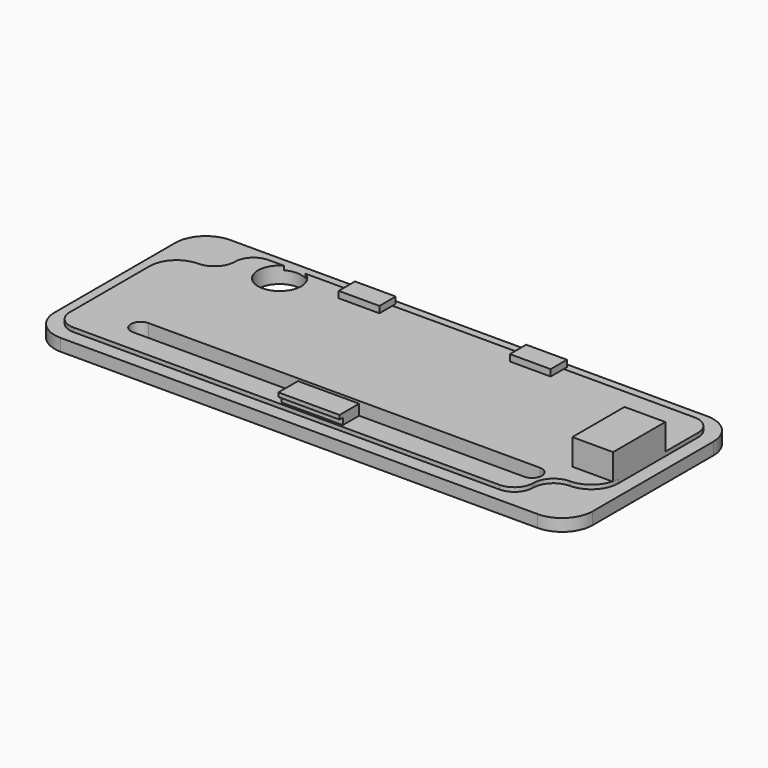
from build123d import *

# Parameters (mm, degrees)
PAD007_DEPTH    = 1.5
PAD008_DEPTH    = 0.5
SKETCH012_W     = 5
SKETCH012_H     = 2.5
SKETCH012_W_2   = 7.5
PAD009_DEPTH    = 0.8
SKETCH013_W     = 7.5
SKETCH013_H     = 3
PAD010_DEPTH    = 0.5
POCKET003_DEPTH = 0.5
POCKET004_DEPTH = 2
SKETCH021_W     = 5
SKETCH021_H     = 8
PAD013_DEPTH    = 3.2
SKETCH024_R     = 2.65
POCKET007_DEPTH = 5.201


with BuildPart() as part:
    # Sketch010 → Pad007 (new body)
    with BuildSketch(Plane.XY.offset(-19)):
        with BuildLine():
            Line((-29.25, 13), (29.25, 13))
            ThreePointArc((33, 9.25), (31.9016504294, 11.9016504294), (29.25, 13))
            Line((33, 9.25), (33, -9.25))
            ThreePointArc((29.25, -13), (31.9016504295, -11.9016504294), (33, -9.25))
            Line((29.25, -13), (-29.25, -13))
            ThreePointArc((-33, -9.25), (-31.9016504294, -11.9016504295), (-29.25, -13))
            Line((-33, -9.25), (-33, 9.25))
            ThreePointArc((-29.25, 13), (-31.9016504294, 11.9016504294), (-33, 9.25))
        make_face()
    extrude(amount=PAD007_DEPTH)

    # Sketch011 → Pad008 (new body)
    with BuildSketch(Plane.XY.offset(-17.5)):
        with BuildLine():
            Line((-29.05, 11.3), (29.05, 11.3))
            ThreePointArc((31.3, 9.05), (30.6409902577, 10.6409902577), (29.05, 11.3))
            Line((31.3, 9.05), (31.3, -9.05))
            ThreePointArc((29.05, -11.3), (30.6409902577, -10.6409902577), (31.3, -9.05))
            Line((29.05, -11.3), (-29.05, -11.3))
            ThreePointArc((-31.3, -9.05), (-30.6409902577, -10.6409902577), (-29.05, -11.3))
            Line((-31.3, -9.05), (-31.3, 9.05))
            ThreePointArc((-29.05, 11.3), (-30.6409902577, 10.6409902577), (-31.3, 9.05))
        make_face()
    extrude(amount=PAD008_DEPTH)

    # Sketch012 → Pad009 (new body)
    with BuildSketch(Plane.XY.offset(-17)):
        with Locations((-10.5, 10.55)):
            Rectangle(SKETCH012_W, SKETCH012_H)
        with Locations((10.5, 10.55)):
            Rectangle(SKETCH012_W, SKETCH012_H)
        with Locations((0, -9.75)):
            Rectangle(SKETCH012_W_2, SKETCH012_H)
    extrude(amount=PAD009_DEPTH)

    # Sketch013 → Pad010 (new body)
    with BuildSketch(Plane.XY.offset(-16.2)):
        with Locations((0, -10)):
            Rectangle(SKETCH013_W, SKETCH013_H)
    extrude(amount=PAD010_DEPTH)

    # Sketch016 → Pocket003 (cut)
    with BuildSketch(Plane.XY.offset(-17)):
        with BuildLine():
            ThreePointArc((28.0000015561, -6.5), (26.2322341473, -7.2322319467), (25.5, -8.9999984439))
            ThreePointArc((23.2000163651, -11.3), (24.8263541015, -10.6263414294), (25.5, -8.999998444))
            Line((23.2000163651, -11.5), (23.2000163651, -11.3))
            Line((31.5, -11.5), (23.2000163651, -11.5))
            Line((31.5, -3.2000163651), (31.5, -11.5))
            Line((31.3, -3.2000163651), (31.5, -3.2000163651))
            ThreePointArc((28.0000015561, -6.5), (30.3334480205, -5.5334584921), (31.3, -3.2000163651))
        make_face()
        with BuildLine():
            Line((-23.2000163651, 11.3), (-23.2000163651, 11.5))
            Line((-23.2000163651, 11.5), (-31.5, 11.5))
            Line((-31.5, 11.5), (-31.5, 3.2000163651))
            Line((-31.5, 3.2000163651), (-31.3, 3.2000163651))
            ThreePointArc((-28.000005004, 6.5), (-30.3334514906, 5.5334595241), (-31.3, 3.2000163651))
            ThreePointArc((-28.000005004, 6.5), (-26.2322365854, 7.2322295087), (-25.5, 8.999994996))
            ThreePointArc((-23.2000163651, 11.3), (-24.8263548156, 10.6263397054), (-25.5, 8.999994996))
        make_face()
    extrude(amount=-POCKET003_DEPTH, mode=Mode.SUBTRACT)

    # Sketch017 → Pocket004 (cut)
    with BuildSketch(Plane.XY.offset(-17)):
        with BuildLine():
            ThreePointArc((-24, -6.1), (-25.2, -7.3), (-24, -8.5))
            Line((-24, -8.5), (24, -8.5))
            ThreePointArc((24, -8.5), (25.2, -7.3), (24, -6.1))
            Line((-24, -6.1), (24, -6.1))
        make_face()
    extrude(amount=-POCKET004_DEPTH, mode=Mode.SUBTRACT)

    # Sketch021 → Pad013 (new body)
    with BuildSketch(Plane.XY.offset(-17)):
        with Locations((28.8, 0)):
            Rectangle(SKETCH021_W, SKETCH021_H)
    extrude(amount=PAD013_DEPTH)

    # Sketch024 → Pocket007 (cut, through all)
    with BuildSketch(Plane(origin=(0, 0, -19), x_dir=(1, 0, 0), z_dir=(0, 0, -1))):
        with Locations((-20, -9)):
            Circle(SKETCH024_R)
    extrude(amount=-POCKET007_DEPTH, mode=Mode.SUBTRACT)


solid = part.part
